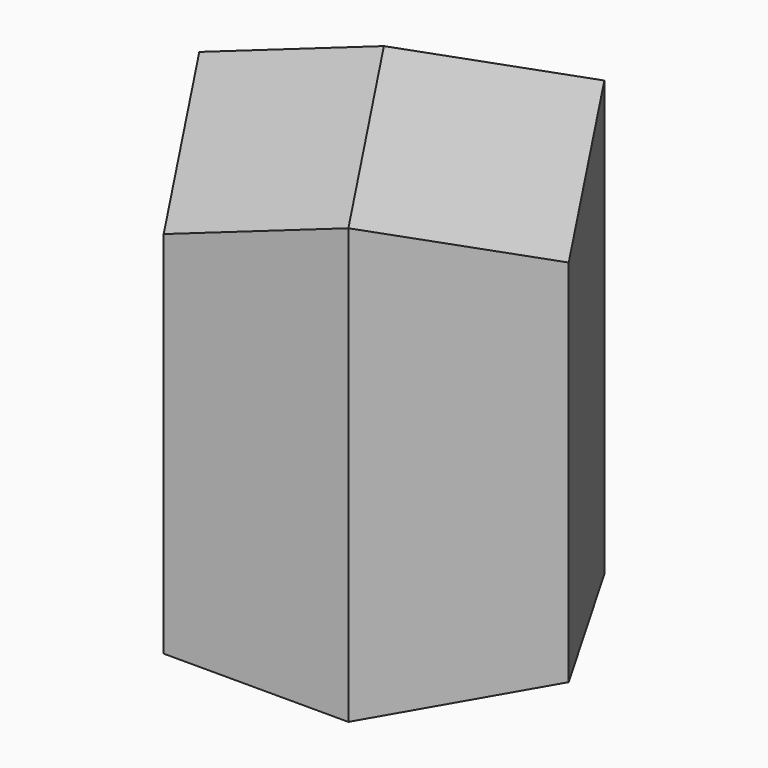
from build123d import *

# Parameters (mm, degrees)
F1_DEPTH  = 38.1
F8_W      = 62.1289778501
F8_H      = 70.9990356117
F9_DEPTH  = 24.4074275016
F10_W     = 94.4273807108
F10_H     = 95.7268364727
F11_DEPTH = 24.4074275016
F12_W     = 81.8659365177
F12_H     = 67.1387314796
F13_DEPTH = 20.7508335567
F14_T     = -2.5


with BuildPart() as f1:
    # F0 (on Top) → F1 (new body, symmetric)
    with BuildSketch(Plane.XY):
        Polygon((12.7, 21.9970452561), (-12.7, 21.9970452561), (-25.4, 0), (-12.7, -21.9970452561), (12.7, -21.9970452561), (25.4, 0), align=None)
    extrude(amount=F1_DEPTH, both=True)

    # F8 (on 3pt) → F9 (cut, through all)
    with BuildSketch(Plane(origin=(-7.2159394472, 12.5101757995, 20.4417548078), x_dir=(0.9575384102, 0.1504945841, 0.2459096848), z_dir=(0.2883057283, -0.4998317088, -0.8167301084))):
        with Locations((4.8328703269, 13.4997954592)):
            Rectangle(F8_W, F8_H)
    extrude(amount=-F9_DEPTH, mode=Mode.SUBTRACT)

    # F10 (on 3pt) → F11 (cut, through all)
    with BuildSketch(Plane(origin=(-7.2159394472, -12.5101757995, 20.4417548078), x_dir=(0.9575384102, -0.1504945841, 0.2459096848), z_dir=(0.2883057283, 0.4998317088, -0.8167301084))):
        with Locations((0.9678620845, 0.6989594549)):
            Rectangle(F10_W, F10_H)
    extrude(amount=-F11_DEPTH, mode=Mode.SUBTRACT)

    # F12 (on 3pt) → F13 (cut, through all)
    with BuildSketch(Plane(origin=(14.4326980932, 0, 20.4429151462), x_dir=(0.816922581, 0, -0.5767473422), z_dir=(-0.5767473422, 0, -0.816922581))):
        with Locations((5.5516734719, -0.7580146194)):
            Rectangle(F12_W, F12_H)
    extrude(amount=-F13_DEPTH, mode=Mode.SUBTRACT)

    # F14
    f14_openings = [f1.faces().sort_by_distance(p)[0] for p in [
        (0, 0, -38.1),
    ]]
    offset(amount=F14_T, openings=f14_openings, kind=Kind.INTERSECTION)


solid = f1.part
